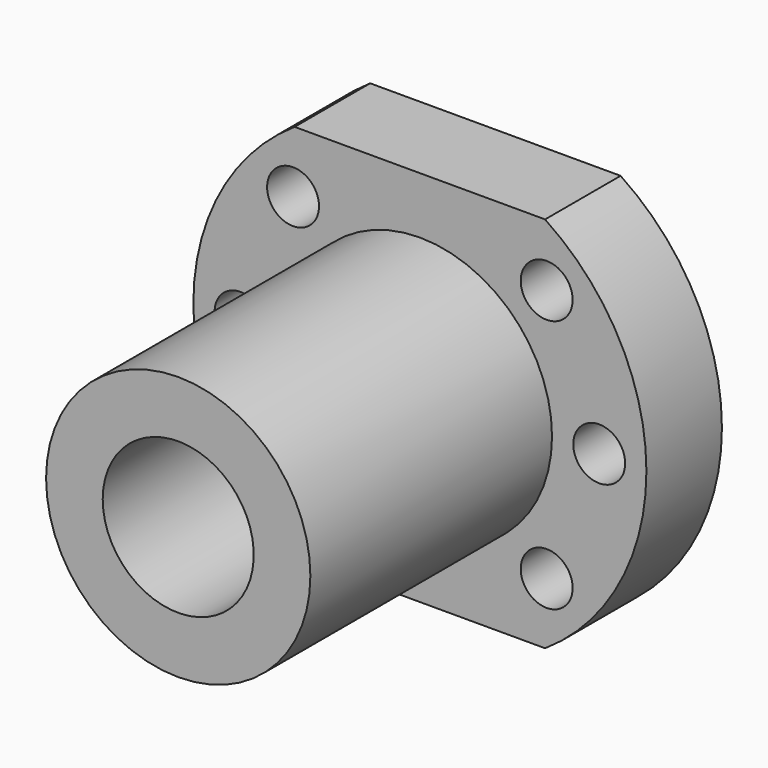
from build123d import *

# Parameters (mm, degrees)
F0_R     = 2.75
F1_DEPTH = 10
F2_R     = 14
F3_DEPTH = 32
F4_R     = 8
F5_DEPTH = 42


with BuildPart() as f1:
    # F0 (on Front) → F1 (new body)
    with BuildSketch(Plane.XZ):
        with BuildLine():
            Line((13.266499, 20), (-13.266499, 20))
            ThreePointArc((-13.266499, 20), (-24, 0), (-13.266499, -20))
            Line((-13.266499, -20), (13.266499, -20))
            ThreePointArc((13.266499, -20), (24, 0), (13.266499, 20))
        make_face()
        with Locations((-13.435029, -13.435029)):
            Circle(F0_R, mode=Mode.SUBTRACT)
        with Locations((13.435029, -13.435029)):
            Circle(F0_R, mode=Mode.SUBTRACT)
        with Locations((-19, 0)):
            Circle(F0_R, mode=Mode.SUBTRACT)
        with Locations((-13.435029, 13.435029)):
            Circle(F0_R, mode=Mode.SUBTRACT)
        with Locations((19, 0)):
            Circle(F0_R, mode=Mode.SUBTRACT)
        with Locations((13.435029, 13.435029)):
            Circle(F0_R, mode=Mode.SUBTRACT)
    extrude(amount=F1_DEPTH)

    # F2 (on face) → F3 (join)
    with BuildSketch(Plane.XZ.offset(10)):
        Circle(F2_R)
    extrude(amount=F3_DEPTH)

    # F4 (on face) → F5 (cut, through all)
    with BuildSketch(Plane(origin=(0, 0, 0), x_dir=(-1, 0, 0), z_dir=(0, 1, 0))):
        Circle(F4_R)
    extrude(amount=-F5_DEPTH, mode=Mode.SUBTRACT)


solid = f1.part
